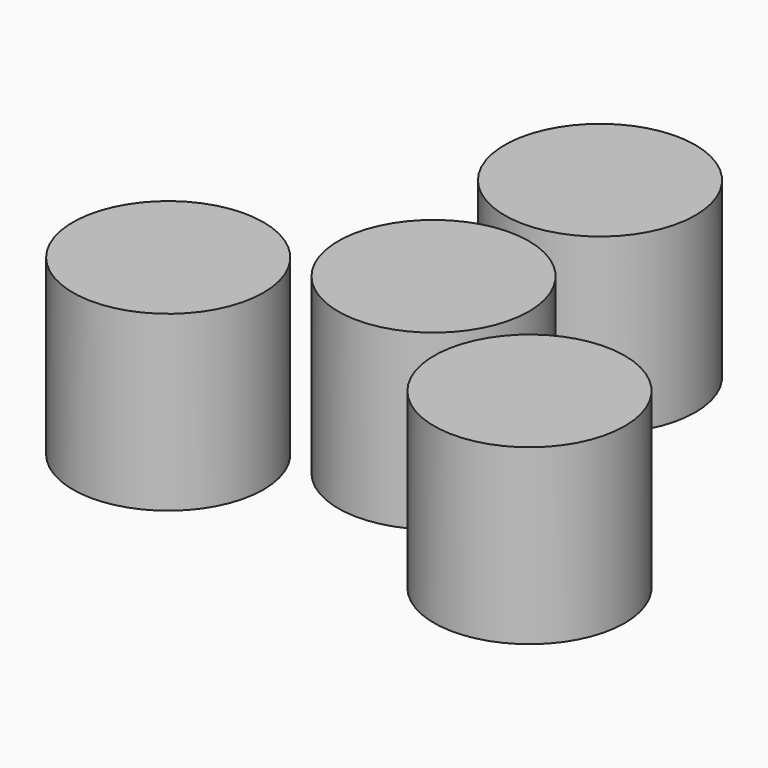
from build123d import *

# Parameters (mm, degrees)
F0_R     = 10.9982
F3_DEPTH = 25.4
F1_R     = 13.97
F4_DEPTH = 25.4


with BuildPart() as f3:
    # F0 (on Top) → F3 (new body)
    with BuildSketch(Plane.XY):
        with Locations((-26.3964543073, -15.24)):
            Circle(F0_R)
    extrude(amount=F3_DEPTH)


with BuildPart() as f3b:
    # F0 (on Top) → F3, piece 2 (new body)
    with BuildSketch(Plane.XY):
        with BuildLine():
            ThreePointArc((0, 10.9982), (-7.7769018008, -7.7769018008), (10.9982, 0))
            ThreePointArc((10.9982, 0), (7.7769018008, 7.7769018008), (0, 10.9982))
        make_face()
    extrude(amount=F3_DEPTH)


with BuildPart() as f3c:
    # F0 (on Top) → F3, piece 3 (new body)
    with BuildSketch(Plane.XY):
        with BuildLine():
            ThreePointArc((10.9982, 30.48), (-7.7769018008, 38.2569018008), (0, 19.4818))
            ThreePointArc((0, 19.4818), (7.7769018008, 22.7030981992), (10.9982, 30.48))
        make_face()
    extrude(amount=F3_DEPTH)


with BuildPart() as f3d:
    # F0 (on Top) → F3, piece 4 (new body)
    with BuildSketch(Plane.XY):
        with Locations((26.3964543073, -15.24)):
            Circle(F0_R)
    extrude(amount=F3_DEPTH)


with BuildPart() as f3e:
    # F1 (on Top) → F3, piece 5 (new body)
    with BuildSketch(Plane.XY):
        Circle(F1_R)
    extrude(amount=F3_DEPTH)


with BuildPart() as f3f:
    # F1 (on Top) → F3, piece 6 (new body)
    with BuildSketch(Plane.XY):
        with Locations((0, 30.487369746)):
            Circle(F1_R)
    extrude(amount=F3_DEPTH)


with BuildPart() as f3g:
    # F1 (on Top) → F3, piece 7 (new body)
    with BuildSketch(Plane.XY):
        with Locations((-26.6184136271, -15.3210647404)):
            Circle(F1_R)
    extrude(amount=F3_DEPTH)


with BuildPart() as f4:
    # F1 (on Top) → F4 (new body)
    with BuildSketch(Plane.XY):
        Circle(F1_R)
    extrude(amount=F4_DEPTH)


with BuildPart() as f4b:
    # F1 (on Top) → F4, piece 2 (new body)
    with BuildSketch(Plane.XY):
        with Locations((-26.6184136271, -15.3210647404)):
            Circle(F1_R)
    extrude(amount=F4_DEPTH)


with BuildPart() as f4c:
    # F1 (on Top) → F4, piece 3 (new body)
    with BuildSketch(Plane.XY):
        with Locations((0, 30.487369746)):
            Circle(F1_R)
    extrude(amount=F4_DEPTH)


with BuildPart() as f4d:
    # F1 (on Top) → F4, piece 4 (new body)
    with BuildSketch(Plane.XY):
        with Locations((26.3088941574, -15.3210647404)):
            Circle(F1_R)
    extrude(amount=F4_DEPTH)


solid = Compound([f3.part, f3b.part, f3c.part, f3d.part, f3e.part, f3f.part, f3g.part, f4.part, f4b.part, f4c.part, f4d.part])
